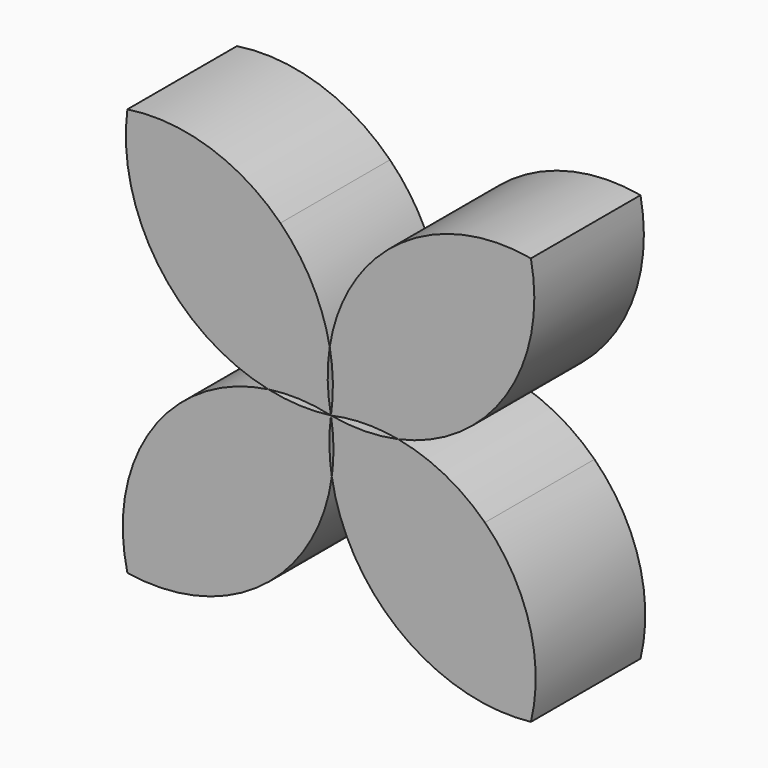
from build123d import *

# Parameters (mm, degrees)
F1_DEPTH = 50.8


with BuildPart() as f1:
    # F0 (on Front) → F1 (new body)
    with BuildSketch(Plane.XZ):
        with BuildLine():
            ThreePointArc((16.590552, 56.732368), (5.409572, 40.797122), (-0.463648, 22.237712))
            ThreePointArc((-0.463648, 22.237712), (0.70607, 11.138411), (0, 0))
            ThreePointArc((0, 0), (12.453687, 1.43335), (24.943237, 0.356344))
            ThreePointArc((24.943237, 0.356344), (42.317613, 6.828737), (57.09996, 18.01994))
            ThreePointArc((57.09996, 18.01994), (72.778398, 44.59106), (74.168026, 75.411618))
            ThreePointArc((74.168026, 75.411618), (43.031356, 73.309333), (16.590552, 56.732368))
        make_face()
        with BuildLine():
            ThreePointArc((-18.757315, 56.732368), (-44.916178, 72.818204), (-75.515434, 75.411618))
            ThreePointArc((-75.515434, 75.411618), (-72.498859, 45.015417), (-56.350435, 19.087495))
            ThreePointArc((-56.350435, 19.087495), (-41.093713, 7.667165), (-23.246298, 0.984257))
            ThreePointArc((-23.246298, 0.984257), (-11.577307, 1.574822), (0, 0))
            ThreePointArc((0, 0), (-1.205288, 11.09856), (-0.463648, 22.237712))
            ThreePointArc((-0.463648, 22.237712), (-7.017321, 40.86028), (-18.757315, 56.732368))
        make_face()
        with BuildLine():
            ThreePointArc((0, 0), (-11.66603, -0.520642), (-23.246298, 0.984257))
            ThreePointArc((-23.246298, 0.984257), (-40.947233, -4.310308), (-56.350435, -14.513096))
            ThreePointArc((-56.350435, -14.513096), (-74.371373, -42.598651), (-75.515434, -75.948969))
            ThreePointArc((-75.515434, -75.948969), (-44.620722, -73.614442), (-18.21762, -57.403042))
            ThreePointArc((-18.21762, -57.403042), (-5.892986, -40.17164), (0.318641, -19.917418))
            ThreePointArc((0.318641, -19.917418), (-0.579963, -9.970536), (0, 0))
        make_face()
        with BuildLine():
            ThreePointArc((24.943237, 0.356344), (12.489191, -1.051813), (0, 0))
            ThreePointArc((0, 0), (0.917245, -9.946584), (0.318641, -19.917418))
            ThreePointArc((0.318641, -19.917418), (7.140548, -40.24408), (19.996739, -57.403042))
            ThreePointArc((19.996739, -57.403042), (45.016922, -72.709065), (74.168026, -75.948969))
            ThreePointArc((74.168026, -75.948969), (73.519515, -43.910142), (57.09996, -16.390964))
            ThreePointArc((57.09996, -16.390964), (42.260726, -5.638046), (24.943237, 0.356344))
        make_face()
    extrude(amount=F1_DEPTH)


solid = f1.part
